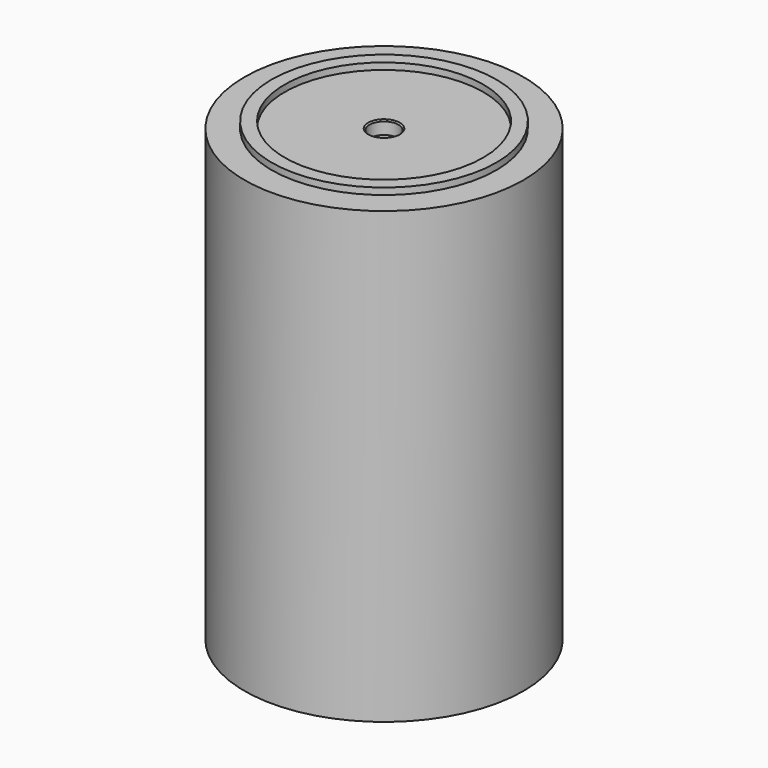
from build123d import *

# Parameters (mm, degrees)
SKETCH013_R     = 21.1
PAD004_DEPTH    = 4.1
SKETCH014_R     = 21.1
SKETCH014_R_2   = 2.2
PAD005_DEPTH    = 2
SKETCH012_R     = 17
SKETCH012_R_2   = 15
PAD006_DEPTH    = 1
CHAMFER003_SIZE = 0.2
SKETCH015_R     = 21.1
SKETCH015_R_2   = 18.1
PAD007_DEPTH    = 61.9
POCKET007_DEPTH = 15
CHAMFER004_SIZE = 5


with BuildPart() as part:
    # Sketch013 → Pad004 (new body)
    with BuildSketch(Plane.XY):
        Circle(SKETCH013_R)
        Polygon((2.125, -3.680608), (4.25, 0), (2.125, 3.680608), (-2.125, 3.680608), (-4.25, 0), (-2.125, -3.680608), align=None, mode=Mode.SUBTRACT)
    extrude(amount=PAD004_DEPTH)

    # Sketch014 → Pad005 (join)
    with BuildSketch(Plane.XY.offset(4.1)):
        Circle(SKETCH014_R)
        Circle(SKETCH014_R_2, mode=Mode.SUBTRACT)
    extrude(amount=PAD005_DEPTH)

    # Sketch012 → Pad006 (join)
    with BuildSketch(Plane.XY.offset(6.1)):
        Circle(SKETCH012_R)
        Circle(SKETCH012_R_2, mode=Mode.SUBTRACT)
    extrude(amount=PAD006_DEPTH)

    # Chamfer003
    chamfer003_edges = [part.edges().sort_by_distance(p)[0] for p in [
        (-2.2, 0, 6.1),
        (15, 0, 6.6),
    ]]
    chamfer(chamfer003_edges, length=CHAMFER003_SIZE)

    # Sketch015 → Pad007 (join)
    with BuildSketch(Plane.XY):
        Circle(SKETCH015_R)
        Circle(SKETCH015_R_2, mode=Mode.SUBTRACT)
    extrude(amount=-PAD007_DEPTH)

    # Sketch016 → Pocket007 (cut)
    with BuildSketch(Plane.XY.offset(-61.9)):
        with BuildLine():
            ThreePointArc((8.07462, 19.493858), (0, 21.1), (-8.07462, 19.493858))
            Line((-8.07462, 19.493858), (-8.07462, 16.19909))
            ThreePointArc((8.07462, 16.19909), (0, 18.1), (-8.07462, 16.19909))
            Line((8.07462, 19.493858), (8.07462, 16.19909))
        make_face()
    extrude(amount=POCKET007_DEPTH, mode=Mode.SUBTRACT)

    # Chamfer004
    chamfer004_edges = [part.edges().sort_by_distance(p)[0] for p in [
        (8.07462, 17.846474, -46.9),
        (-8.07462, 17.846474, -46.9),
    ]]
    chamfer(chamfer004_edges, length=CHAMFER004_SIZE)


solid = part.part
